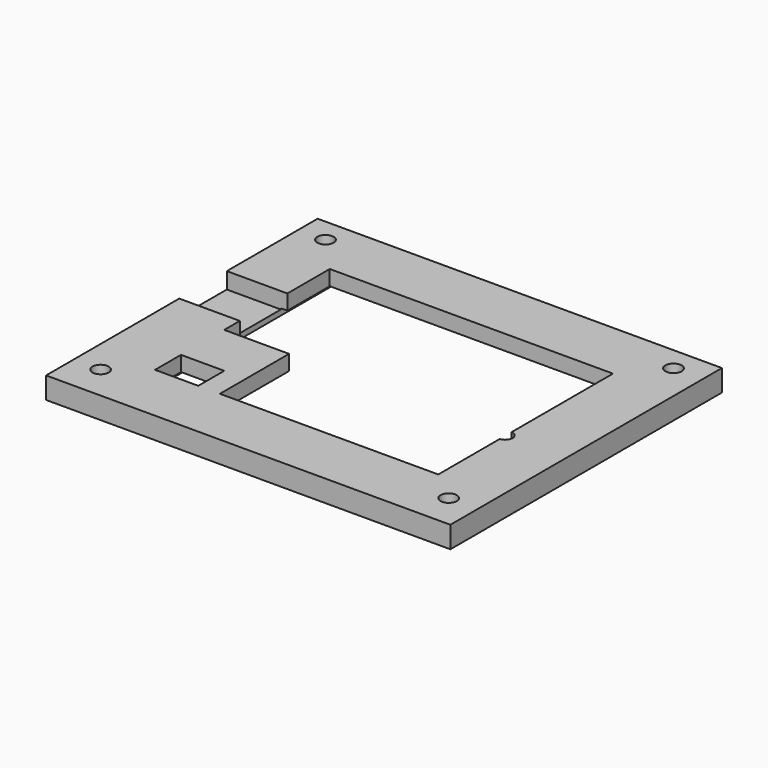
from build123d import *

# Parameters (mm, degrees)
F0_W     = 94.996
F0_H     = 79.756
F0_W_2   = 10.16
F0_H_2   = 7.62
F1_DEPTH = 5.08
F2_W     = 70.612
F2_H     = 54.61
F3_DEPTH = 1.524
F5_DEPTH = 25.4
F6_R     = 1.905
F7_DEPTH = 25.4
F8_W     = 24.773464
F8_H     = 13.97
F9_DEPTH = 3.81


with BuildPart() as f1:
    # F0 (on Top) → F1 (new body)
    with BuildSketch(Plane.XY):
        with Locations((47.498, 39.878)):
            Rectangle(F0_W, F0_H)
        with Locations((19.304, 18.034)):
            Rectangle(F0_W_2, F0_H_2, mode=Mode.SUBTRACT)
        Polygon((14.224, 65.532), (80.772, 65.532), (80.772, 14.224), (29.464, 14.224), (29.464, 34.544), (14.224, 34.544), align=None, mode=Mode.SUBTRACT)
    extrude(amount=F1_DEPTH)

    # F2 (on face) → F3 (cut)
    with BuildSketch(Plane(origin=(0, 0, 0), x_dir=(1, 0, 0), z_dir=(0, 0, -1))):
        with Locations((48.006, -41.529)):
            Rectangle(F2_W, F2_H)
    extrude(amount=-F3_DEPTH, mode=Mode.SUBTRACT)

    # F4 (on face) → F5 (cut)
    with BuildSketch(Plane(origin=(0, 0, 1.524), x_dir=(1, 0, 0), z_dir=(0, 0, -1))):
        with BuildLine():
            Line((80.772, -32.258), (80.772, -35.80123))
            ThreePointArc((80.772, -35.80123), (82.399452, -34.029615), (80.772, -32.258))
        make_face()
    extrude(amount=-F5_DEPTH, mode=Mode.SUBTRACT)

    # F6 (on face) → F7 (cut)
    with BuildSketch(Plane(origin=(0, 0, 0), x_dir=(1, 0, 0), z_dir=(0, 0, -1))):
        with Locations((6.35, -8.077516)):
            Circle(F6_R)
        with Locations((88.138, -8.077516)):
            Circle(F6_R)
        with Locations((6.35, -74.117516)):
            Circle(F6_R)
        with Locations((88.138, -74.117516)):
            Circle(F6_R)
    extrude(amount=-F7_DEPTH, mode=Mode.SUBTRACT)

    # F8 (on face) → F9 (cut)
    with BuildSketch(Plane.XY.offset(5.08)):
        with Locations((8.389047, 46.101)):
            Rectangle(F8_W, F8_H)
    extrude(amount=-F9_DEPTH, mode=Mode.SUBTRACT)


solid = f1.part
